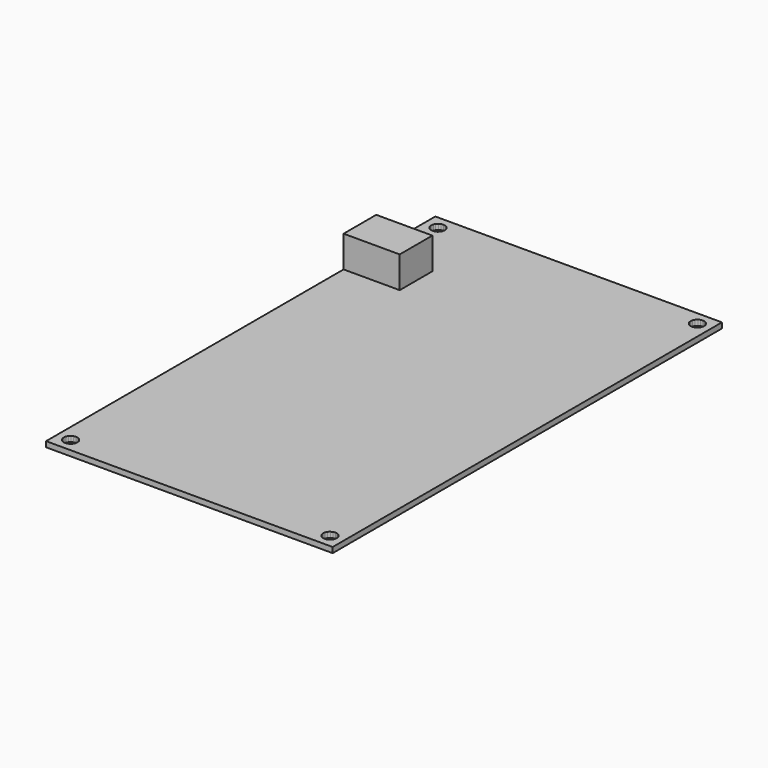
from build123d import *

# Parameters (mm, degrees)
PRISM001_DEPTH             = 10
PRISM002_DEPTH             = 10
PRISM003_DEPTH             = 10
PRISM_DEPTH                = 10
CUBE001_W                  = 12
CUBE001_H                  = 16.5
CUBE001_DEPTH              = 10.85
CUBE_W                     = 143
CUBE_H                     = 84.23
CUBE_DEPTH                 = 1.6
DIFFERENCE_PLACEMENT_ANGLE = -90


with BuildPart() as prism001:
    # prism001 → prism001 (new body)
    with BuildSketch(Plane(origin=(139, 4, -1), x_dir=(1, 0, 0), z_dir=(0, 0, 1))):
        Polygon((2, 0), (1.902113, 0.618034), (1.618034, 1.175571), (1.175571, 1.618034), (0.618034, 1.902113), (0, 2), (-0.618034, 1.902113), (-1.175571, 1.618034), (-1.618034, 1.175571), (-1.902113, 0.618034), (-2, 0), (-1.902113, -0.618034), (-1.618034, -1.175571), (-1.175571, -1.618034), (-0.618034, -1.902113), (0, -2), (0.618034, -1.902113), (1.175571, -1.618034), (1.618034, -1.175571), (1.902113, -0.618034), align=None)
    extrude(amount=PRISM001_DEPTH)


with BuildPart() as prism002:
    # prism002 → prism002 (new body)
    with BuildSketch(Plane(origin=(4, 80.23, -1), x_dir=(1, 0, 0), z_dir=(0, 0, 1))):
        Polygon((2, 0), (1.902113, 0.618034), (1.618034, 1.175571), (1.175571, 1.618034), (0.618034, 1.902113), (0, 2), (-0.618034, 1.902113), (-1.175571, 1.618034), (-1.618034, 1.175571), (-1.902113, 0.618034), (-2, 0), (-1.902113, -0.618034), (-1.618034, -1.175571), (-1.175571, -1.618034), (-0.618034, -1.902113), (0, -2), (0.618034, -1.902113), (1.175571, -1.618034), (1.618034, -1.175571), (1.902113, -0.618034), align=None)
    extrude(amount=PRISM002_DEPTH)


with BuildPart() as prism003:
    # prism003 → prism003 (new body)
    with BuildSketch(Plane(origin=(139, 80.23, -1), x_dir=(1, 0, 0), z_dir=(0, 0, 1))):
        Polygon((2, 0), (1.902113, 0.618034), (1.618034, 1.175571), (1.175571, 1.618034), (0.618034, 1.902113), (0, 2), (-0.618034, 1.902113), (-1.175571, 1.618034), (-1.618034, 1.175571), (-1.902113, 0.618034), (-2, 0), (-1.902113, -0.618034), (-1.618034, -1.175571), (-1.175571, -1.618034), (-0.618034, -1.902113), (0, -2), (0.618034, -1.902113), (1.175571, -1.618034), (1.618034, -1.175571), (1.902113, -0.618034), align=None)
    extrude(amount=PRISM003_DEPTH)


with BuildPart() as group002:
    # prism → prism (new body)
    with BuildSketch(Plane(origin=(4, 4, -1), x_dir=(1, 0, 0), z_dir=(0, 0, 1))):
        Polygon((2, 0), (1.902113, 0.618034), (1.618034, 1.175571), (1.175571, 1.618034), (0.618034, 1.902113), (0, 2), (-0.618034, 1.902113), (-1.175571, 1.618034), (-1.618034, 1.175571), (-1.902113, 0.618034), (-2, 0), (-1.902113, -0.618034), (-1.618034, -1.175571), (-1.175571, -1.618034), (-0.618034, -1.902113), (0, -2), (0.618034, -1.902113), (1.175571, -1.618034), (1.618034, -1.175571), (1.902113, -0.618034), align=None)
    extrude(amount=PRISM_DEPTH)

    # Group002: union prism001, prism002, prism003
    add(prism001.part)
    add(prism002.part)
    add(prism003.part)


with BuildPart() as cube001:
    # cube001 → cube001 (new body)
    with BuildSketch(Plane(origin=(21.71, 0, 0), x_dir=(1, 0, 0), z_dir=(0, 0, 1))):
        with Locations((6, 8.25)):
            Rectangle(CUBE001_W, CUBE001_H)
    extrude(amount=CUBE001_DEPTH)


with BuildPart() as obj1:
    # cube → cube (new body)
    with BuildSketch(Plane.XY):
        with Locations((71.5, 42.115)):
            Rectangle(CUBE_W, CUBE_H)
    extrude(amount=CUBE_DEPTH)

    # Group001: union cube001
    add(cube001.part)

    # difference: cut Group002
    add(group002.part, mode=Mode.SUBTRACT)


with BuildPart() as obj1_1:
    # difference placement: moved
    add(obj1.part.moved(Location((0.5, 147, 4))).rotate(Axis((0.5, 147, 4), (0, 0, 1)), DIFFERENCE_PLACEMENT_ANGLE))


solid = obj1_1.part
